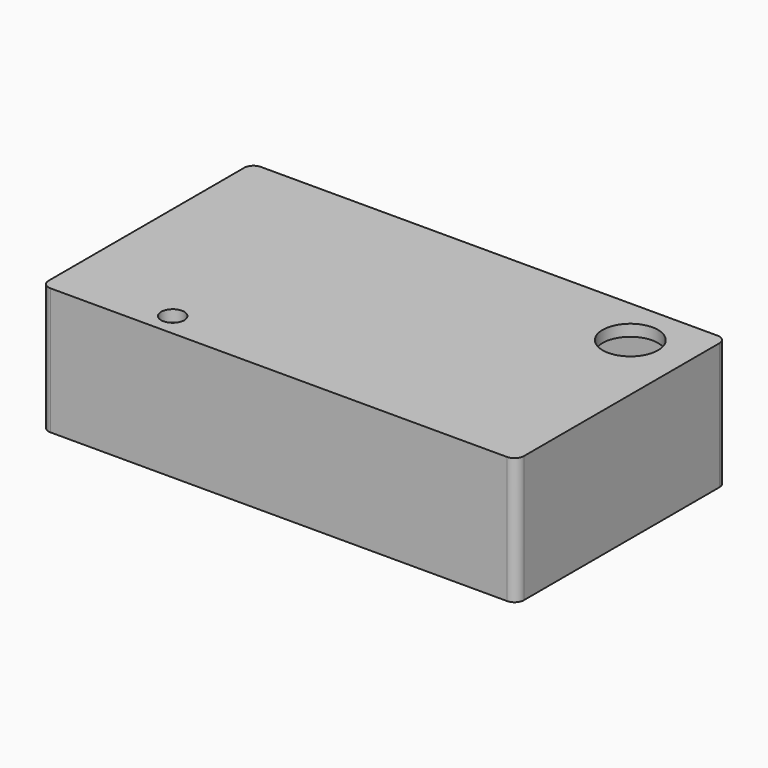
from build123d import *

# Parameters (mm, degrees)
F0_R     = 6
F1_DEPTH = 2.5
F2_W     = 98
F2_H     = 52
F3_DEPTH = 25


with BuildPart() as f1:
    # F0 (on Top) → F1 (new body)
    with BuildSketch(Plane.XY):
        with BuildLine():
            Line((98.5, 54.5), (-0.5, 54.5))
            ThreePointArc((-0.5, 54.5), (-1.9142135624, 53.9142135624), (-2.5, 52.5))
            Line((-2.5, 52.5), (-2.5, -0.5))
            ThreePointArc((-2.5, -0.5), (-1.9142135624, -1.9142135624), (-0.5, -2.5))
            Line((-0.5, -2.5), (98.5, -2.5))
            ThreePointArc((98.5, -2.5), (99.9142135624, -1.9142135624), (100.5, -0.5))
            Line((100.5, -0.5), (100.5, 52.5))
            ThreePointArc((100.5, 52.5), (99.9142135624, 53.9142135624), (98.5, 54.5))
        make_face()
        Polygon((22, 0), (0, 0), (0, 52), (98, 52), (98, 0), align=None, mode=Mode.SUBTRACT)
        Polygon((0, 52), (0, 0), (22, 0), (98, 0), (98, 52), align=None)
        with BuildLine():
            ThreePointArc((24.5, 2.5), (23.767766953, 0.732233047), (22, 0))
            ThreePointArc((22, 0), (20.232233047, 4.267766953), (24.5, 2.5))
        make_face(mode=Mode.SUBTRACT)
        with Locations((88, 44)):
            Circle(F0_R, mode=Mode.SUBTRACT)
    extrude(amount=F1_DEPTH)

    # F2 (on Top) → F3 (join)
    with BuildSketch(Plane.XY):
        with BuildLine():
            Line((98.5, 54.5), (-0.5, 54.5))
            ThreePointArc((-0.5, 54.5), (-1.9142135624, 53.9142135624), (-2.5, 52.5))
            Line((-2.5, 52.5), (-2.5, -0.5))
            ThreePointArc((-2.5, -0.5), (-1.9142135624, -1.9142135624), (-0.5, -2.5))
            Line((-0.5, -2.5), (98.5, -2.5))
            ThreePointArc((98.5, -2.5), (99.9142135624, -1.9142135624), (100.5, -0.5))
            Line((100.5, -0.5), (100.5, 52.5))
            ThreePointArc((100.5, 52.5), (99.9142135624, 53.9142135624), (98.5, 54.5))
        make_face()
        with Locations((49, 26)):
            Rectangle(F2_W, F2_H, mode=Mode.SUBTRACT)
    extrude(amount=-F3_DEPTH)


solid = f1.part
